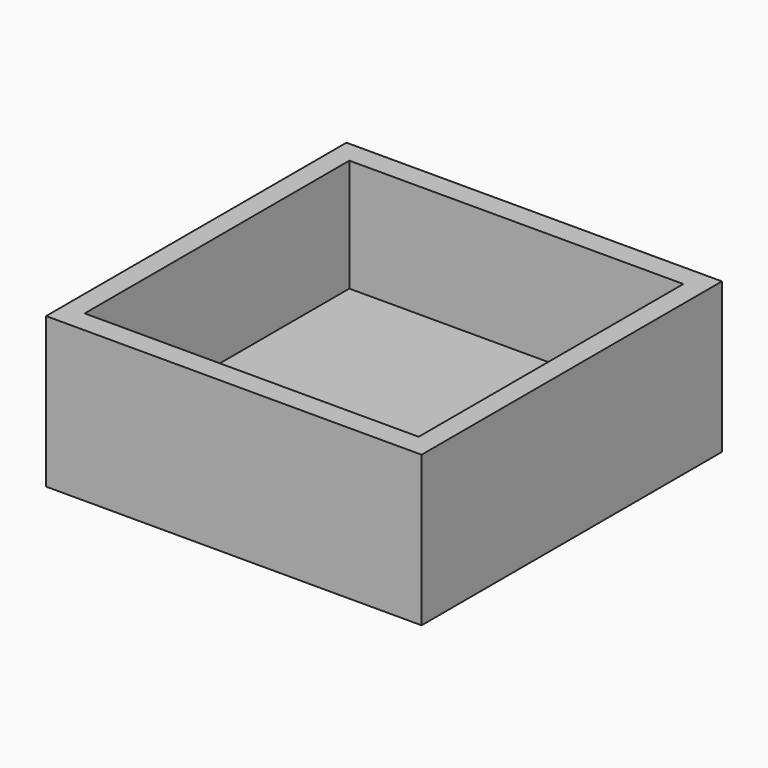
from build123d import *

# Parameters (mm, degrees)
F0_W     = 100
F0_H     = 100
F1_DEPTH = 40
F2_W     = 88.950806
F2_H     = 88.116594
F3_DEPTH = 30
F4_W     = 50
F4_H     = 25
F5_DEPTH = 35


with BuildPart() as f1:
    # F0 (on Top) → F1 (new body)
    with BuildSketch(Plane.XY):
        Rectangle(F0_W, F0_H)
    extrude(amount=-F1_DEPTH)

    # F2 (on face) → F3 (cut)
    with BuildSketch(Plane.XY):
        Rectangle(F2_W, F2_H)
    extrude(amount=-F3_DEPTH, mode=Mode.SUBTRACT)

    # F4 (on Top) → F5 (cut)
    with BuildSketch(Plane.XY):
        with Locations((0, -23.558297)):
            Rectangle(F4_W, F4_H)
    extrude(amount=-F5_DEPTH, mode=Mode.SUBTRACT)


solid = f1.part
